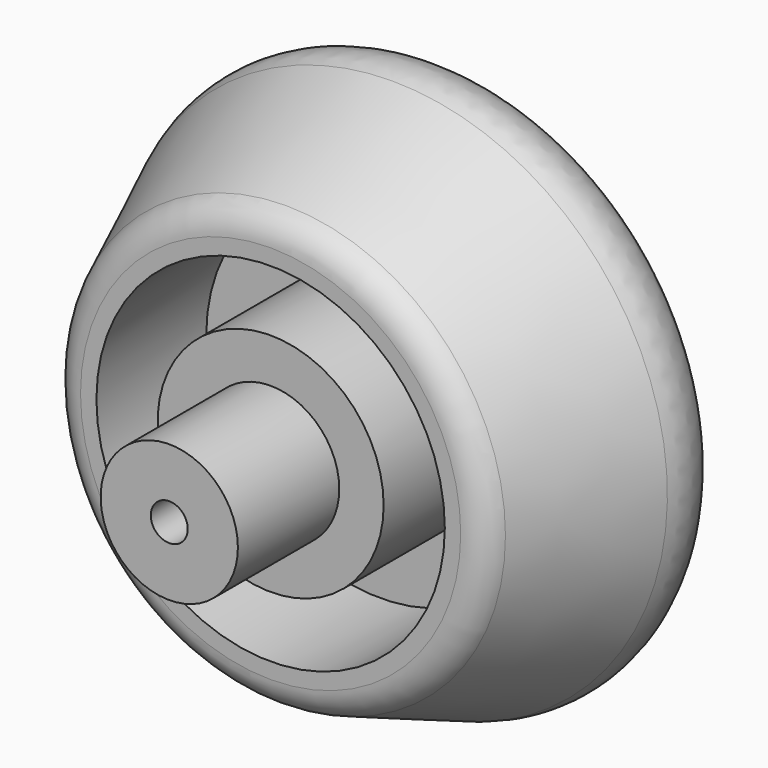
from build123d import *

# Parameters (mm, degrees)
F0_R     = 6.5
F0_R_2   = 1.75
F3_DEPTH = 20
F4_DEPTH = 30
F5_R     = 3
F6_R     = 5
F7_R     = 16.5
F7_R_2   = 10.70440387
F8_DEPTH = 25


with BuildPart() as f2:
    # F1 (on Right) → F2 (revolve)
    with BuildSketch(Plane.YZ):
        Polygon((12, 20), (12, 0), (35, 0), (35, 20), (30.4406098954, 27.7423450379), align=None)
    revolve(axis=Axis((0, 35.946440883, 0), (0, 1, 0)))

    # F0 (on Front) → F3 (join)
    with BuildSketch(Plane.XZ):
        Circle(F0_R)
        Circle(F0_R_2, mode=Mode.SUBTRACT)
    extrude(amount=-F3_DEPTH)

    # F0 (on Front) → F4 (cut)
    with BuildSketch(Plane.XZ):
        Circle(F0_R_2)
    extrude(amount=-F4_DEPTH, mode=Mode.SUBTRACT)

    # F5
    f5_edges = [f2.edges().sort_by_distance(p)[0] for p in [
        (0, 12, -20),
    ]]
    fillet(f5_edges, radius=F5_R)

    # F6
    f6_edges = [f2.edges().sort_by_distance(p)[0] for p in [
        (0, 30.44061, -27.742345),
    ]]
    fillet(f6_edges, radius=F6_R)

    # F7 (on Front) → F8 (cut)
    with BuildSketch(Plane.XZ):
        Circle(F7_R)
        Circle(F7_R_2, mode=Mode.SUBTRACT)
        Circle(F7_R)
        Circle(F7_R_2, mode=Mode.SUBTRACT)
    extrude(amount=-F8_DEPTH, mode=Mode.SUBTRACT)


solid = f2.part
